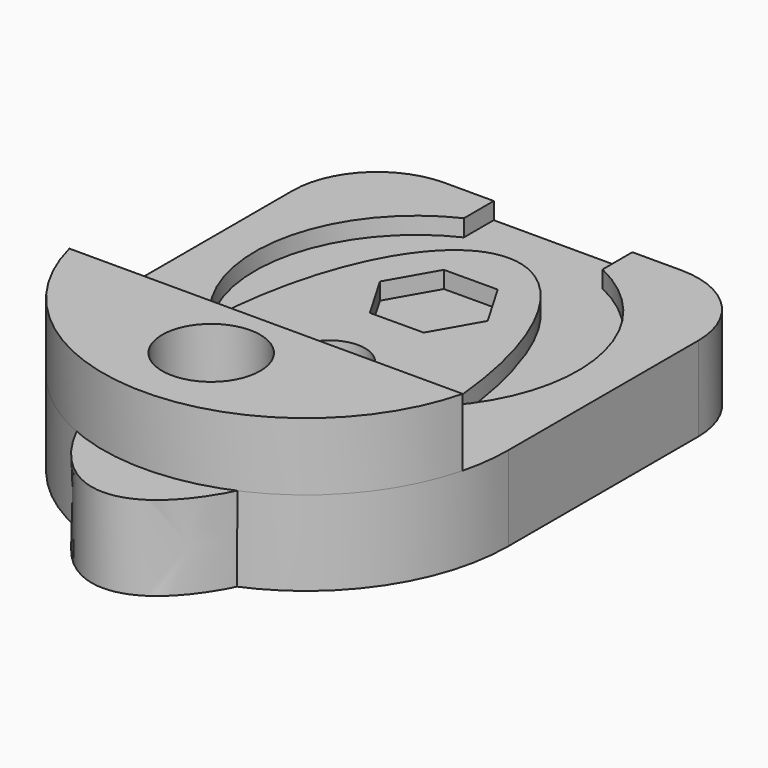
from build123d import *

# Parameters (mm, degrees)
F0_R      = 1.6
F1_DEPTH  = 5
F3_DEPTH  = 2.5
F4_R      = 1.6
F5_DEPTH  = 5
F6_R      = 1.6
F7_DEPTH  = 4
F9_DEPTH  = 1
F10_R     = 2.9
F11_DEPTH = 3.2


with BuildPart() as f1:
    # F0 (on Top) → F1 (new body)
    with BuildSketch(Plane.XY):
        with BuildLine():
            add(Edge.make_bspline(
                [(0, -15), (12.124355653, -15), (6.0621778265, 7.5), (0, 30), (-6.0621778265, 7.5), (-12.124355653, -15), (0, -15)],
                knots=[0, 0, 0, 2.0943951024, 2.0943951024, 4.1887902048, 4.1887902048, 6.2831853072, 6.2831853072, 6.2831853072], degree=2, weights=[1, 0.5, 1, 0.5, 1, 0.5, 1]))
        make_face()
        with BuildLine():
            ThreePointArc((-2.1, 1.7540045083), (0, 3.8540045083), (2.1, 1.7540045083))
            Line((2.1, 1.7540045083), (2.1, -8.6568603292))
            ThreePointArc((2.1, -8.6568603292), (0, -10.7568603292), (-2.1, -8.6568603292))
            Line((-2.1, -8.6568603292), (-2.1, 1.7540045083))
        make_face(mode=Mode.SUBTRACT)
        with Locations((0, 9.4576962292)):
            Circle(F0_R, mode=Mode.SUBTRACT)
    extrude(amount=F1_DEPTH)

    # F2 (on face) → F3 (cut)
    with BuildSketch(Plane.XY.offset(5)):
        Polygon((1.5994630503, 6.7145135368), (3.175397424, 9.471280517), (1.5759343737, 12.2144632094), (-1.5994630503, 12.2008789216), (-3.175397424, 9.4441119415), (-1.5759343737, 6.700929249), align=None)
    extrude(amount=-F3_DEPTH, mode=Mode.SUBTRACT)


with BuildPart() as f5:
    # F4 (on Top) → F5 (new body)
    with BuildSketch(Plane.XY):
        with BuildLine():
            Line((-12, 14.0174950817), (-12, 0))
            ThreePointArc((-12, 0), (0, -12), (12, 0))
            Line((12, 0), (12, 14.0174950817))
            ThreePointArc((12, 14.0174950817), (10.5355339059, 17.5530289876), (7, 19.0174950817))
            Line((7, 19.0174950817), (-7, 19.0174950817))
            ThreePointArc((-7, 19.0174950817), (-10.5355339059, 17.5530289876), (-12, 14.0174950817))
        make_face()
        with Locations((0, -7)):
            Circle(F4_R, mode=Mode.SUBTRACT)
    extrude(amount=F5_DEPTH)

    # F6 (on face) → F7 (join)
    with BuildSketch(Plane.XY.offset(5)):
        with BuildLine():
            Line((11.6328887184, -2.945488086), (-11.6328887184, -2.945488086))
            ThreePointArc((-11.6328887184, -2.945488086), (0, -12), (11.6328887184, -2.945488086))
        make_face()
        with Locations((0, -7)):
            Circle(F6_R, mode=Mode.SUBTRACT)
    extrude(amount=F7_DEPTH)

    # F8 (on face) → F9 (cut)
    with BuildSketch(Plane.XY.offset(5)):
        with BuildLine():
            Line((-4.1, 19.0174950817), (-4.1, 16.8106414017))
            ThreePointArc((-4.1, 16.8106414017), (0, -1.3644672933), (4.1, 16.8106414017))
            Line((4.1, 16.8106414017), (4.1, 19.0174950817))
            Line((4.1, 19.0174950817), (0, 19.0174950817))
            Line((0, 19.0174950817), (-4.1, 19.0174950817))
        make_face()
    extrude(amount=-F9_DEPTH, mode=Mode.SUBTRACT)

    # F10 (on face) → F11 (cut)
    with BuildSketch(Plane.XY.offset(9)):
        with Locations((0, -7)):
            Circle(F10_R)
    extrude(amount=-F11_DEPTH, mode=Mode.SUBTRACT)


solid = Compound([f1.part, f5.part])
